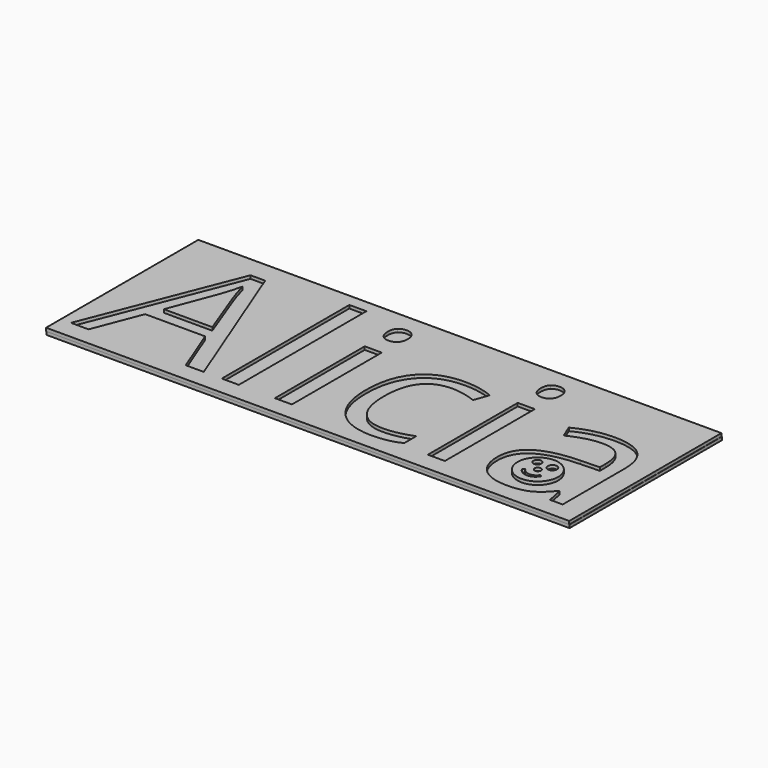
from build123d import *

# Parameters (mm, degrees)
F0_W     = 165
F0_H     = 60
F0_W_2   = 5.3674592261
F0_H_2   = 35.4210941219
F0_H_3   = 50.2927826904
F1_DEPTH = 1
F2_W     = 164.9859398603
F2_H     = 60.061968863
F3_DEPTH = 1
F4_R     = 6.409683708
F4_R_2   = 1.2613707954
F4_R_3   = 1.0177752813
F4_R_4   = 1.454007205
F5_DEPTH = 1


with BuildPart() as f1:
    # F0 (on Top) → F1 (new body)
    with BuildSketch(Plane.XY):
        with Locations((-0.6536817551, -1.306731385)):
            Rectangle(F0_W, F0_H)
        Polygon((-38.1035080281, -25.4630388226), (-43.7915669382, -25.4630388226), (-49.6761224288, -10.4362213747), (-68.6121876368, -10.4362213747), (-74.4243496503, -25.4630388226), (-79.9883054569, -25.4630388226), (-61.3107883813, 21.9857144127), (-56.6879477762, 21.9857144127), align=None, mode=Mode.SUBTRACT)
        with Locations((-12.9881424588, -7.7524917617)):
            Rectangle(F0_W_2, F0_H_2, mode=Mode.SUBTRACT)
        with BuildLine():
            add(Edge.make_bspline(
                [(24.1755660746, -24.2633754889), (20.6282856998, -26.114580116), (15.2298006979, -26.114580116)],
                knots=[0, 0, 0, 1, 1, 1], degree=2))
            add(Edge.make_bspline(
                [(15.2298006979, -26.114580116), (7.5354082813, -26.114580116), (3.3159027626, -21.3779783327)],
                knots=[0, 0, 0, 1, 1, 1], degree=2))
            add(Edge.make_bspline(
                [(3.3159027626, -21.3779783327), (-0.9036027562, -16.6413765494), (-0.9036027562, -7.9748431555)],
                knots=[0, 0, 0, 1, 1, 1], degree=2))
            add(Edge.make_bspline(
                [(-0.9036027562, -7.9748431555), (-0.9036027562, 0.9088706696), (3.3831252769, 5.7592336311)],
                knots=[0, 0, 0, 1, 1, 1], degree=2))
            add(Edge.make_bspline(
                [(3.3831252769, 5.7592336311), (7.6698533101, 10.6095965926), (15.5814261577, 10.6095965926)],
                knots=[0, 0, 0, 1, 1, 1], degree=2))
            add(Edge.make_bspline(
                [(15.5814261577, 10.6095965926), (18.1358817046, 10.6095965926), (20.6903372515, 10.0563035895)],
                knots=[0, 0, 0, 1, 1, 1], degree=2))
            add(Edge.make_bspline(
                [(20.6903372515, 10.0563035895), (23.2447927984, 9.5030105864), (24.6926623392, 8.7583919655)],
                knots=[0, 0, 0, 1, 1, 1], degree=2))
            Line((24.6926623392, 8.7583919655), (23.0482962179, 4.2079448374))
            add(Edge.make_bspline(
                [(23.0482962179, 4.2079448374), (21.2694850678, 4.9215376825), (19.1700742337, 5.3869243206)],
                knots=[0, 0, 0, 1, 1, 1], degree=2))
            add(Edge.make_bspline(
                [(19.1700742337, 5.3869243206), (17.0706633997, 5.8523109587), (15.4573230543, 5.8523109587)],
                knots=[0, 0, 0, 1, 1, 1], degree=2))
            add(Edge.make_bspline(
                [(15.4573230543, 5.8523109587), (4.6603530504, 5.8523109587), (4.6603530504, -7.9127916037)],
                knots=[0, 0, 0, 1, 1, 1], degree=2))
            add(Edge.make_bspline(
                [(4.6603530504, -7.9127916037), (4.6603530504, -14.4385464624), (7.292373037, -17.9289462481)],
                knots=[0, 0, 0, 1, 1, 1], degree=2))
            add(Edge.make_bspline(
                [(7.292373037, -17.9289462481), (9.9243930235, -21.4193460338), (15.0953556691, -21.4193460338)],
                knots=[0, 0, 0, 1, 1, 1], degree=2))
            add(Edge.make_bspline(
                [(15.0953556691, -21.4193460338), (19.5216996936, -21.4193460338), (24.1755660746, -19.5164317803)],
                knots=[0, 0, 0, 1, 1, 1], degree=2))
            Line((24.1755660746, -19.5164317803), (24.1755660746, -24.2633754889))
        make_face(mode=Mode.SUBTRACT)
        with Locations((35.2672809493, -7.7524917617)):
            Rectangle(F0_W_2, F0_H_2, mode=Mode.SUBTRACT)
        with BuildLine():
            Line((75.0888642825, -25.4630388226), (71.1072230454, -25.4630388226))
            Line((71.1072230454, -25.4630388226), (70.0420047405, -20.4161792806))
            Line((70.0420047405, -20.4161792806), (69.7834566082, -20.4161792806))
            add(Edge.make_bspline(
                [(69.7834566082, -20.4161792806), (67.1359237337, -23.7462792243), (64.5039037471, -24.9304296701)],
                knots=[0, 0, 0, 1, 1, 1], degree=2))
            add(Edge.make_bspline(
                [(64.5039037471, -24.9304296701), (61.8718837605, -26.114580116), (57.9212682993, -26.114580116)],
                knots=[0, 0, 0, 1, 1, 1], degree=2))
            add(Edge.make_bspline(
                [(57.9212682993, -26.114580116), (52.6572283262, -26.114580116), (49.6684119171, -23.3946537644)],
                knots=[0, 0, 0, 1, 1, 1], degree=2))
            add(Edge.make_bspline(
                [(49.6684119171, -23.3946537644), (46.679595508, -20.6747274129), (46.679595508, -15.669235572)],
                knots=[0, 0, 0, 1, 1, 1], degree=2))
            add(Edge.make_bspline(
                [(46.679595508, -15.669235572), (46.679595508, -4.9446590452), (63.8368495658, -4.4275627806)],
                knots=[0, 0, 0, 1, 1, 1], degree=2))
            Line((63.8368495658, -4.4275627806), (69.8455081599, -4.2310662001))
            Line((69.8455081599, -4.2310662001), (69.8455081599, -2.0282361131))
            add(Edge.make_bspline(
                [(69.8455081599, -2.0282361131), (69.8455081599, 2.1395597792), (68.0563550846, 4.1252094351)],
                knots=[0, 0, 0, 1, 1, 1], degree=2))
            add(Edge.make_bspline(
                [(68.0563550846, 4.1252094351), (66.2672020092, 6.110859091), (62.316586548, 6.110859091)],
                knots=[0, 0, 0, 1, 1, 1], degree=2))
            add(Edge.make_bspline(
                [(62.316586548, 6.110859091), (57.8902425235, 6.110859091), (52.3056028663, 3.4012746647)],
                knots=[0, 0, 0, 1, 1, 1], degree=2))
            Line((52.3056028663, 3.4012746647), (50.6508948197, 7.5070190053))
            add(Edge.make_bspline(
                [(50.6508948197, 7.5070190053), (53.2674019184, 8.9238627701), (56.3854923936, 9.7305329428)],
                knots=[0, 0, 0, 1, 1, 1], degree=2))
            add(Edge.make_bspline(
                [(56.3854923936, 9.7305329428), (59.5035828689, 10.5372031155), (62.6475281574, 10.5372031155)],
                knots=[0, 0, 0, 1, 1, 1], degree=2))
            add(Edge.make_bspline(
                [(62.6475281574, 10.5372031155), (68.9767864355, 10.5372031155), (72.032825359, 7.729370399)],
                knots=[0, 0, 0, 1, 1, 1], degree=2))
            add(Edge.make_bspline(
                [(72.032825359, 7.729370399), (75.0888642825, 4.9215376825), (75.0888642825, -1.2836174921)],
                knots=[0, 0, 0, 1, 1, 1], degree=2))
            Line((75.0888642825, -1.2836174921), (75.0888642825, -25.4630388226))
        make_face(mode=Mode.SUBTRACT)
        with Locations((-29.731719505, -0.3166474774)):
            Rectangle(F0_W_2, F0_H_3, mode=Mode.SUBTRACT)
        with BuildLine():
            add(Edge.make_bspline(
                [(-15.2219983217, 16.8561194684), (-16.1269167846, 17.7455250434), (-16.1269167846, 19.5553619693)],
                knots=[0, 0, 0, 1, 1, 1], degree=2))
            add(Edge.make_bspline(
                [(-16.1269167846, 19.5553619693), (-16.1269167846, 21.3962246712), (-15.2219983217, 22.2546044703)],
                knots=[0, 0, 0, 1, 1, 1], degree=2))
            add(Edge.make_bspline(
                [(-15.2219983217, 22.2546044703), (-14.3170798587, 23.1129842695), (-12.9519457203, 23.1129842695)],
                knots=[0, 0, 0, 1, 1, 1], degree=2))
            add(Edge.make_bspline(
                [(-12.9519457203, 23.1129842695), (-11.6592050589, 23.1129842695), (-10.7232608201, 22.2390915824)],
                knots=[0, 0, 0, 1, 1, 1], degree=2))
            add(Edge.make_bspline(
                [(-10.7232608201, 22.2390915824), (-9.7873165812, 21.3651988953), (-9.7873165812, 19.5553619693)],
                knots=[0, 0, 0, 1, 1, 1], degree=2))
            add(Edge.make_bspline(
                [(-9.7873165812, 19.5553619693), (-9.7873165812, 17.7455250434), (-10.7232608201, 16.8561194684)],
                knots=[0, 0, 0, 1, 1, 1], degree=2))
            add(Edge.make_bspline(
                [(-10.7232608201, 16.8561194684), (-11.6592050589, 15.9667138934), (-12.9519457203, 15.9667138934)],
                knots=[0, 0, 0, 1, 1, 1], degree=2))
            add(Edge.make_bspline(
                [(-12.9519457203, 15.9667138934), (-14.3170798587, 15.9667138934), (-15.2219983217, 16.8561194684)],
                knots=[0, 0, 0, 1, 1, 1], degree=2))
        make_face(mode=Mode.SUBTRACT)
        with BuildLine():
            add(Edge.make_bspline(
                [(33.0334250864, 16.8561194684), (32.1285066234, 17.7455250434), (32.1285066234, 19.5553619693)],
                knots=[0, 0, 0, 1, 1, 1], degree=2))
            add(Edge.make_bspline(
                [(32.1285066234, 19.5553619693), (32.1285066234, 21.3962246712), (33.0334250864, 22.2546044703)],
                knots=[0, 0, 0, 1, 1, 1], degree=2))
            add(Edge.make_bspline(
                [(33.0334250864, 22.2546044703), (33.9383435494, 23.1129842695), (35.3034776878, 23.1129842695)],
                knots=[0, 0, 0, 1, 1, 1], degree=2))
            add(Edge.make_bspline(
                [(35.3034776878, 23.1129842695), (36.5962183492, 23.1129842695), (37.532162588, 22.2390915824)],
                knots=[0, 0, 0, 1, 1, 1], degree=2))
            add(Edge.make_bspline(
                [(37.532162588, 22.2390915824), (38.4681068269, 21.3651988953), (38.4681068269, 19.5553619693)],
                knots=[0, 0, 0, 1, 1, 1], degree=2))
            add(Edge.make_bspline(
                [(38.4681068269, 19.5553619693), (38.4681068269, 17.7455250434), (37.532162588, 16.8561194684)],
                knots=[0, 0, 0, 1, 1, 1], degree=2))
            add(Edge.make_bspline(
                [(37.532162588, 16.8561194684), (36.5962183492, 15.9667138934), (35.3034776878, 15.9667138934)],
                knots=[0, 0, 0, 1, 1, 1], degree=2))
            add(Edge.make_bspline(
                [(35.3034776878, 15.9667138934), (33.9383435494, 15.9667138934), (33.0334250864, 16.8561194684)],
                knots=[0, 0, 0, 1, 1, 1], degree=2))
        make_face(mode=Mode.SUBTRACT)
    extrude(amount=F1_DEPTH)


with BuildPart() as f1b:
    # F0 (on Top) → F1, piece 2 (new body)
    with BuildSketch(Plane.XY):
        with BuildLine():
            Line((-66.6679056821, -5.4927810856), (-51.3825401019, -5.4927810856))
            Line((-51.3825401019, -5.4927810856), (-56.8844443567, 9.1513851265))
            add(Edge.make_bspline(
                [(-56.8844443567, 9.1513851265), (-57.9496626617, 11.9333630298), (-59.0769325184, 15.9667138934)],
                knots=[0, 0, 0, 1, 1, 1], degree=2))
            add(Edge.make_bspline(
                [(-59.0769325184, 15.9667138934), (-59.7905253635, 12.864136306), (-61.1142918008, 9.1513851265)],
                knots=[0, 0, 0, 1, 1, 1], degree=2))
            Line((-61.1142918008, 9.1513851265), (-66.6679056821, -5.4927810856))
        make_face()
    extrude(amount=F1_DEPTH)


with BuildPart() as f3:
    # F2 (on Top) → F3 (new body)
    with BuildSketch(Plane.XY):
        with Locations((-0.579893589, -1.2329444289)):
            Rectangle(F2_W, F2_H)
    extrude(amount=-F3_DEPTH)

    # F4 (on Top) → F5 (join)
    with BuildSketch(Plane.XY):
        with Locations((58.6539879441, -14.6888671443)):
            Circle(F4_R)
        with BuildLine():
            Line((55.4006919265, -16.8080963194), (56.1387794259, -16.463384994))
            ThreePointArc((56.1387794259, -16.463384994), (58.5373394084, -17.9477110273), (61.0213756043, -16.6113435853))
            Line((61.0213756043, -16.6113435853), (61.5598000586, -16.9907808304))
            ThreePointArc((61.5598000586, -16.9907808304), (58.4223745304, -18.8505431924), (55.4006919265, -16.8080963194))
        make_face(mode=Mode.SUBTRACT)
        with Locations((56.1442412436, -11.7362253368)):
            Circle(F4_R_2, mode=Mode.SUBTRACT)
        with Locations((58.6539879441, -14.6888671443)):
            Circle(F4_R_3, mode=Mode.SUBTRACT)
        with Locations((60.8684681356, -11.7362253368)):
            Circle(F4_R_4, mode=Mode.SUBTRACT)
    extrude(amount=F5_DEPTH)


solid = Compound([f1.part, f1b.part, f3.part])
